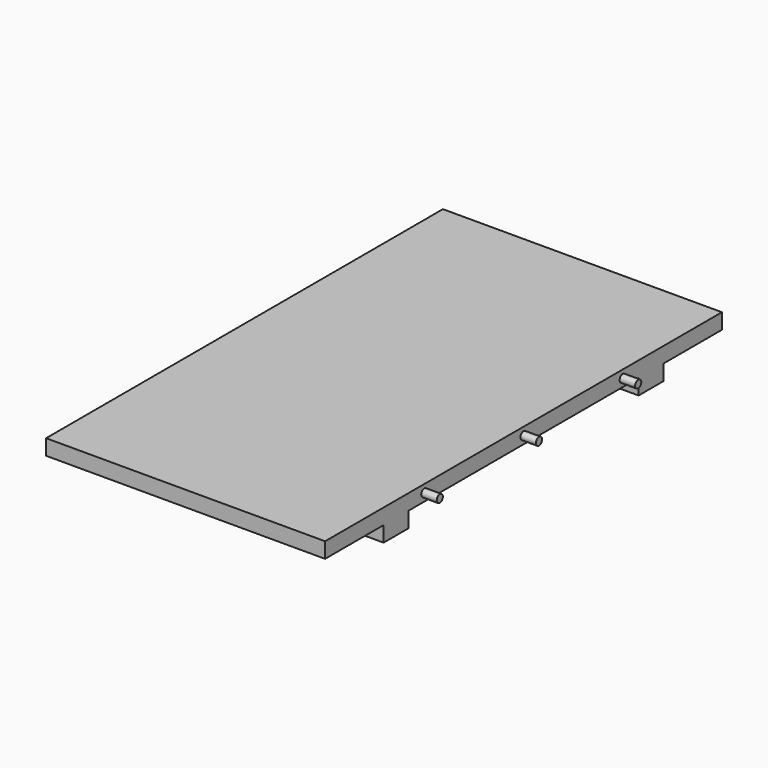
from build123d import *

# Parameters (mm, degrees)
F0_W     = 57.15
F0_H     = 101.6
F1_DEPTH = 3.175
F2_R     = 0.7874
F3_DEPTH = 3.175
F4_W     = 6.35
F4_H     = 6.35
F5_DEPTH = 3.175


with BuildPart() as f1:
    # F0 (on Top) → F1 (new body)
    with BuildSketch(Plane.XY):
        Rectangle(F0_W, F0_H)
    extrude(amount=F1_DEPTH)

    # F2 (on face) → F3 (join)
    with BuildSketch(Plane.YZ.offset(28.575)):
        with Locations((0, 1.5875)):
            Circle(F2_R)
        with Locations((25.4, 1.5875)):
            Circle(F2_R)
        with Locations((-25.4, 1.5875)):
            Circle(F2_R)
    extrude(amount=F3_DEPTH)

    # F4 (on face) → F5 (join)
    with BuildSketch(Plane(origin=(0, 0, 0), x_dir=(1, 0, 0), z_dir=(0, 0, -1))):
        with Locations((-16.764, 32.639)):
            Rectangle(F4_W, F4_H)
        with Locations((-16.764, -32.639)):
            Rectangle(F4_W, F4_H)
        with Locations((25.4, -32.639)):
            Rectangle(F4_W, F4_H)
        with Locations((25.4, 32.639)):
            Rectangle(F4_W, F4_H)
    extrude(amount=F5_DEPTH)


solid = f1.part
